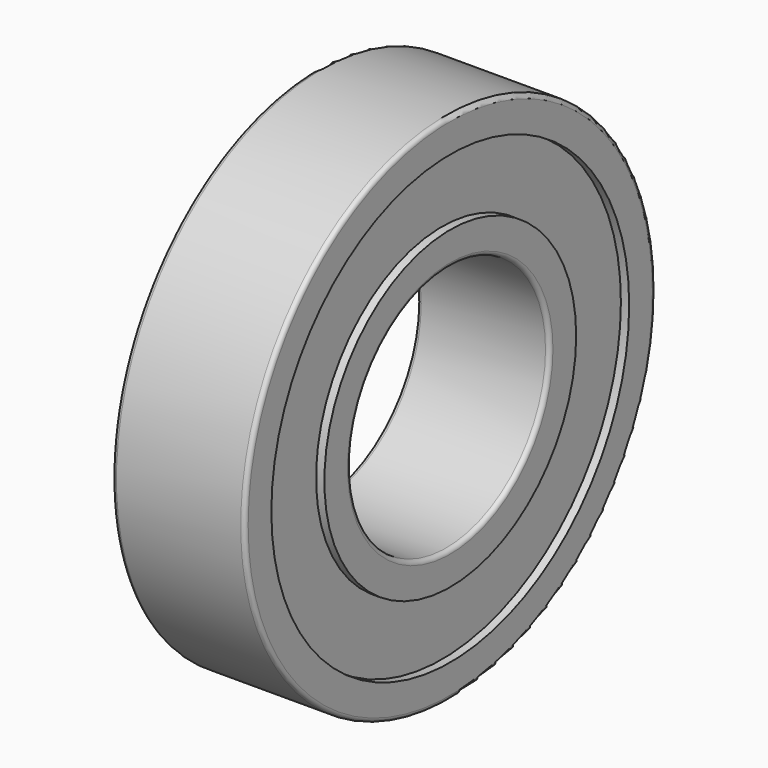
from build123d import *

# Parameters (mm, degrees)
FILLET_R = 0.5


with BuildPart() as part:
    # Sketch → Revolution (revolve)
    with BuildSketch(Plane.XY):
        Polygon((-2.138438, 31), (-18.138438, 31), (-18.138438, 27), (-17.138438, 27), (-17.138438, 19), (-18.138438, 19), (-18.138438, 15), (-2.138438, 15), (-2.138438, 19), (-3.138438, 19), (-3.138438, 27), (-2.138438, 27), align=None)
    revolve(axis=Axis((0, 0, 0), (1, 0, 0)))

    # Fillet
    fillet_edges = [part.edges().sort_by_distance(p)[0] for p in [
        (-2.138438, -31, 0),
        (-2.138438, -15, 0),
        (-18.138438, -31, 0),
        (-18.138438, -15, 0),
    ]]
    fillet(fillet_edges, radius=FILLET_R)


solid = part.part
